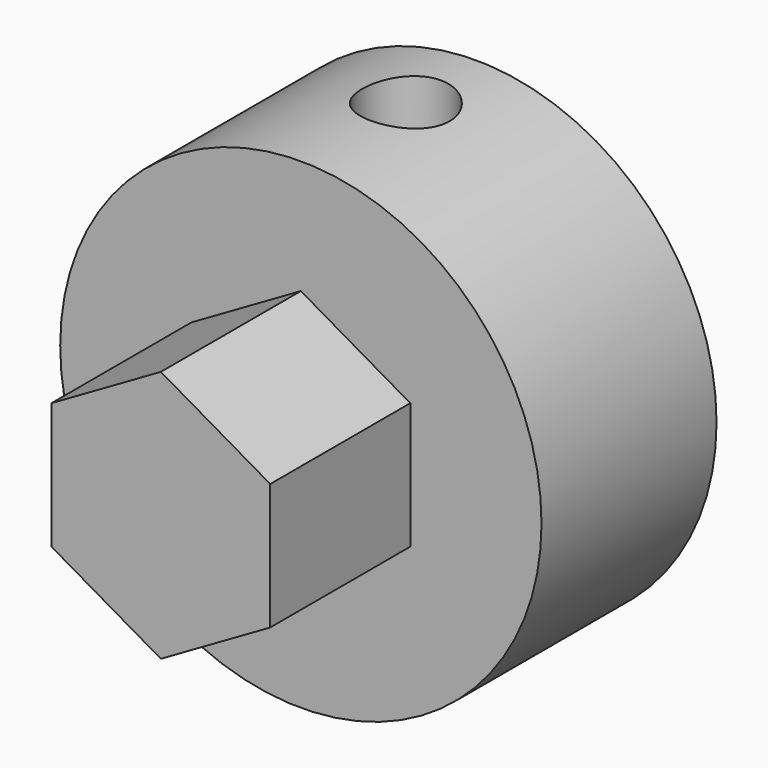
from build123d import *

# Parameters (mm, degrees)
F0_R          = 5.5
F1_DEPTH      = 5
F3_DEPTH      = 4
F4_R          = 2.5
F5_DEPTH      = 4
F6_R          = 1
F7_DEPTH      = 5.501
F7_DEPTH_BACK = 5.501


with BuildPart() as f1:
    # F0 (on Front) → F1 (new body)
    with BuildSketch(Plane.XZ):
        Circle(F0_R)
        Circle(F0_R)
    extrude(amount=F1_DEPTH)

    # F2 (on face) → F3 (join)
    with BuildSketch(Plane.XZ.offset(5)):
        Polygon((2.5, -1.443376), (2.5, 1.443376), (0, 2.886751), (-2.5, 1.443376), (-2.5, -1.443376), (0, -2.886751), align=None)
    extrude(amount=F3_DEPTH)

    # F4 (on face) → F5 (cut)
    with BuildSketch(Plane(origin=(0, 0, 0), x_dir=(-1, 0, 0), z_dir=(0, 1, 0))):
        Circle(F4_R)
    extrude(amount=-F5_DEPTH, mode=Mode.SUBTRACT)

    # F6 (on Top) → F7 (cut, two sides)
    with BuildSketch(Plane.XY) as f7_sk:
        with Locations((0, -2)):
            Circle(F6_R)
    extrude(amount=F7_DEPTH, mode=Mode.SUBTRACT)
    extrude(f7_sk.sketch, amount=-F7_DEPTH_BACK, mode=Mode.SUBTRACT)


solid = f1.part
